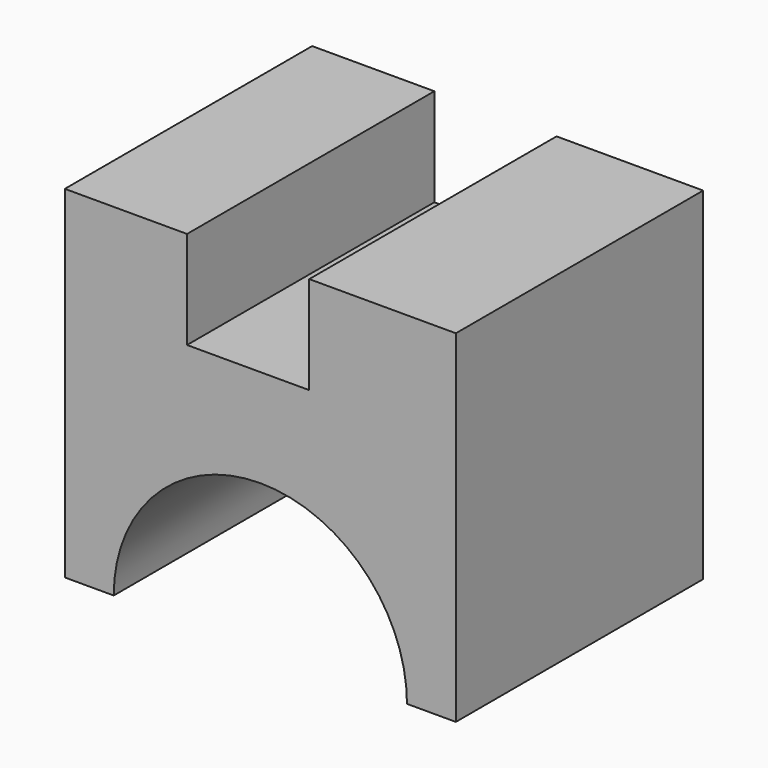
from build123d import *

# Parameters (mm, degrees)
F0_W     = 40
F0_H     = 31.621624
F1_DEPTH = 35
F3_DEPTH = 10
F5_DEPTH = 40


with BuildPart() as f1:
    # F0 (on Top) → F1 (new body)
    with BuildSketch(Plane.XY):
        with Locations((20, -15.810812)):
            Rectangle(F0_W, F0_H)
    extrude(amount=F1_DEPTH)

    # F2 (on face) → F3 (cut)
    with BuildSketch(Plane.XY.offset(35)):
        Polygon((25, -31.621624), (25, -18.624302), (25, 0), (12.5, 0), (12.5, -18.326312), (12.5, -31.621624), align=None)
    extrude(amount=-F3_DEPTH, mode=Mode.SUBTRACT)

    # F4 (on face) → F5 (cut)
    with BuildSketch(Plane.XZ.offset(31.621624)):
        with BuildLine():
            Line((5, 0), (35, 0))
            ThreePointArc((35, 0), (20, 15), (5, 0))
        make_face()
    extrude(amount=-F5_DEPTH, mode=Mode.SUBTRACT)


solid = f1.part
